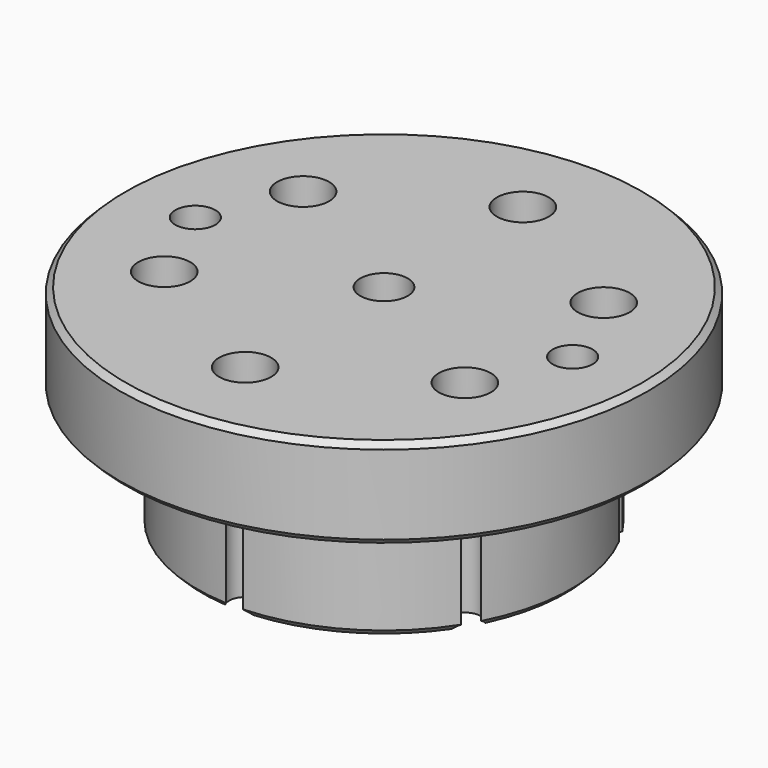
from build123d import *

# Parameters (mm, degrees)
CYLINDER014005867_R                      = 3.45
CYLINDER014005867_DEPTH                  = 4.1
CYLINDER014005866_R                      = 2.1
CYLINDER014005866_DEPTH                  = 28
FUSION001089102007_PLACEMENT_ANGLE       = 120
FUSION001089102007002_PLACEMENT_ANGLE    = 120
FUSION001089102007003_PLACEMENT_ANGLE    = 180
FUSION001089102007004_PLACEMENT_ANGLE    = 240
FUSION001089102007005_PLACEMENT_ANGLE    = 60
CYLINDER014005868_R                      = 3.15
CYLINDER014005868_DEPTH                  = 28
PRISM002_DEPTH                           = 8.4
CYLINDER014005869_R                      = 2.65
CYLINDER014005869_DEPTH                  = 28
FUSION001089102007007001_PLACEMENT_ANGLE = 180
FUSION001089102007001_PLACEMENT_ANGLE    = 60
CYLINDER014005865_R                      = 35
CYLINDER014005865_DEPTH                  = 12
CYLINDER014005859_R                      = 24.8
CYLINDER014005859_DEPTH                  = 15.9
CHAMFER011_SIZE                          = 0.75


with BuildPart() as obj1:
    # Cylinder014005867 → Cylinder014005867 (new body)
    with BuildSketch(Plane(origin=(0, 23, 24), x_dir=(1, 0, 0), z_dir=(0, 0, 1))):
        Circle(CYLINDER014005867_R)
    extrude(amount=CYLINDER014005867_DEPTH)


with BuildPart() as obj2:
    # Cylinder014005866 → Cylinder014005866 (new body)
    with BuildSketch(Plane(origin=(0, 23, 0), x_dir=(1, 0, 0), z_dir=(0, 0, 1))):
        Circle(CYLINDER014005866_R)
    extrude(amount=CYLINDER014005866_DEPTH)

    # Fusion001089102007: union obj1
    add(obj1.part)


with BuildPart() as obj2_1:
    # Fusion001089102007 placement: moved
    add(obj2.part.rotate(Axis((0, 0, 0), (0, 0, 1)), FUSION001089102007_PLACEMENT_ANGLE))


with BuildPart() as obj3:
    # Fusion001089102007002 base: copy of obj2
    add(obj2_1.part)


with BuildPart() as obj3_1:
    # Fusion001089102007002 placement: moved
    add(obj3.part.rotate(Axis((0, 0, 0), (0, 0, 1)), FUSION001089102007002_PLACEMENT_ANGLE))


with BuildPart() as obj4:
    # Fusion001089102007003 base: copy of obj2
    add(obj2_1.part)


with BuildPart() as obj4_1:
    # Fusion001089102007003 placement: moved
    add(obj4.part.rotate(Axis((0, 0, 0), (0, 0, 1)), FUSION001089102007003_PLACEMENT_ANGLE))


with BuildPart() as obj5:
    # Fusion001089102007004 base: copy of obj2
    add(obj2_1.part)


with BuildPart() as obj5_1:
    # Fusion001089102007004 placement: moved
    add(obj5.part.rotate(Axis((0, 0, 0), (0, 0, 1)), FUSION001089102007004_PLACEMENT_ANGLE))


with BuildPart() as obj6:
    # Fusion001089102007005 base: copy of obj2
    add(obj2_1.part)


with BuildPart() as obj6_1:
    # Fusion001089102007005 placement: moved
    add(obj6.part.rotate(Axis((0, 0, 0), (0, 0, -1)), FUSION001089102007005_PLACEMENT_ANGLE))


with BuildPart() as obj7:
    # Cylinder014005868 → Cylinder014005868 (new body)
    with BuildSketch(Plane.XY):
        Circle(CYLINDER014005868_R)
    extrude(amount=CYLINDER014005868_DEPTH)


with BuildPart() as m4x002:
    # prism002 → prism002 (new body)
    with BuildSketch(Plane(origin=(25, 0, 12), x_dir=(1, 0, 0), z_dir=(0, 0, 1))):
        Polygon((4.6, 0), (2.3, 3.983717), (-2.3, 3.983717), (-4.6, 0), (-2.3, -3.983717), (2.3, -3.983717), align=None)
    extrude(amount=PRISM002_DEPTH)


with BuildPart() as fusion001089102007007:
    # Cylinder014005869 → Cylinder014005869 (new body)
    with BuildSketch(Plane(origin=(25, 0, 12), x_dir=(1, 0, 0), z_dir=(0, 0, 1))):
        Circle(CYLINDER014005869_R)
    extrude(amount=CYLINDER014005869_DEPTH)

    # Fusion001089102007007: union M4X002
    add(m4x002.part)


with BuildPart() as fusion001089102007007001:
    # Fusion001089102007007001 base: copy of Fusion001089102007007
    add(fusion001089102007007.part)


with BuildPart() as fusion001089102007007001_1:
    # Fusion001089102007007001 placement: moved
    add(fusion001089102007007001.part.rotate(Axis((0, 0, 0), (0, 0, 1)), FUSION001089102007007001_PLACEMENT_ANGLE))


with BuildPart() as fusion001089102007006:
    # Fusion001089102007001 base: copy of obj2
    add(obj2_1.part)


with BuildPart() as fusion001089102007006_1:
    # Fusion001089102007001 placement: moved
    add(fusion001089102007006.part.rotate(Axis((0, 0, 0), (0, 0, 1)), FUSION001089102007001_PLACEMENT_ANGLE))

    # Fusion001089102007006: union obj3, obj4, obj5, obj6, obj7, obj2, Fusion001089102007007, Fusion001089102007007001
    add(obj3_1.part)
    add(obj4_1.part)
    add(obj5_1.part)
    add(obj6_1.part)
    add(obj7.part)
    add(obj2_1.part)
    add(fusion001089102007007.part)
    add(fusion001089102007007001_1.part)


with BuildPart() as h005:
    # Cylinder014005865 → Cylinder014005865 (new body)
    with BuildSketch(Plane.XY.offset(15.9)):
        Circle(CYLINDER014005865_R)
    extrude(amount=CYLINDER014005865_DEPTH)


with BuildPart() as obj8:
    # Cylinder014005859 → Cylinder014005859 (new body)
    with BuildSketch(Plane.XY):
        Circle(CYLINDER014005859_R)
    extrude(amount=CYLINDER014005859_DEPTH)

    # Fusion001089102008: union H005
    add(h005.part)

    # Chamfer011
    chamfer011_edges = [obj8.edges().sort_by_distance(p)[0] for p in [
        (-35, 0, 27.9),
        (-35, 0, 15.9),
        (-24.8, 0, 0),
    ]]
    chamfer(chamfer011_edges, length=CHAMFER011_SIZE)

    # Cut009003003009002: cut Fusion001089102007006
    add(fusion001089102007006_1.part, mode=Mode.SUBTRACT)


solid = obj8.part
